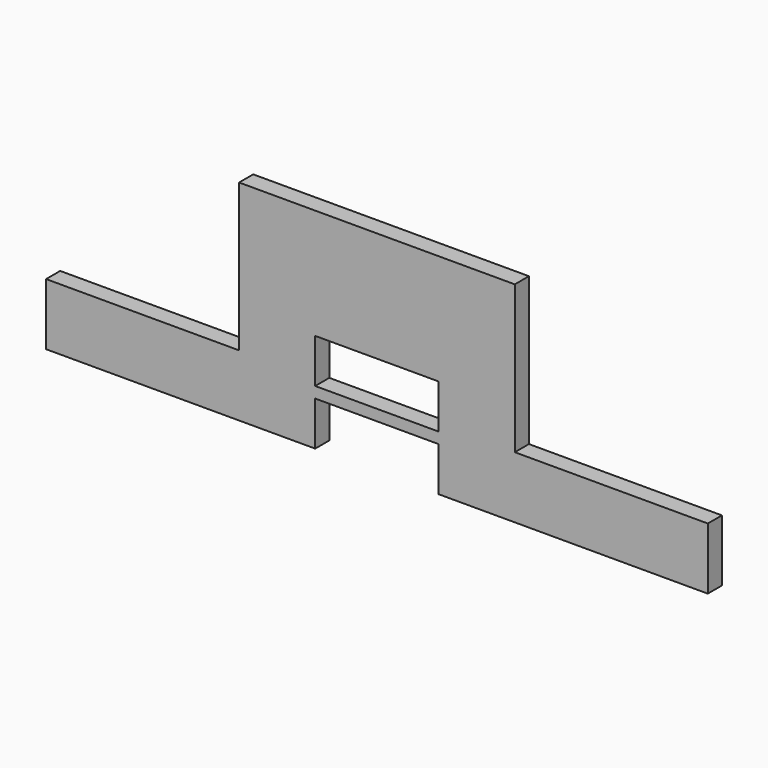
from build123d import *

# Parameters (mm, degrees)
F1_DEPTH = 8
F2_W     = 56
F2_H     = 20
F3_DEPTH = 25
F5_W     = 28
F5_H     = 20
F6_DEPTH = 25


with BuildPart() as f1:
    # F0 (on Front) → F1 (new body)
    with BuildSketch(Plane.XZ):
        Polygon((-150, 0), (0, 0), (150, 0), (150, 28), (62.5, 28), (62.5, 95), (-62.5, 95), (-62.5, 28), (-150, 28), align=None)
    extrude(amount=F1_DEPTH)

    # F2 (on face) → F3 (cut)
    with BuildSketch(Plane.XZ.offset(8)):
        with Locations((0, 10)):
            Rectangle(F2_W, F2_H)
    extrude(amount=-F3_DEPTH, mode=Mode.SUBTRACT)

    # F5 (on face) → F6 (cut)
    with BuildSketch(Plane.XZ.offset(8)):
        with Locations((-14, 35)):
            Rectangle(F5_W, F5_H)
        with Locations((14, 35)):
            Rectangle(F5_W, F5_H)
    extrude(amount=-F6_DEPTH, mode=Mode.SUBTRACT)


solid = f1.part
